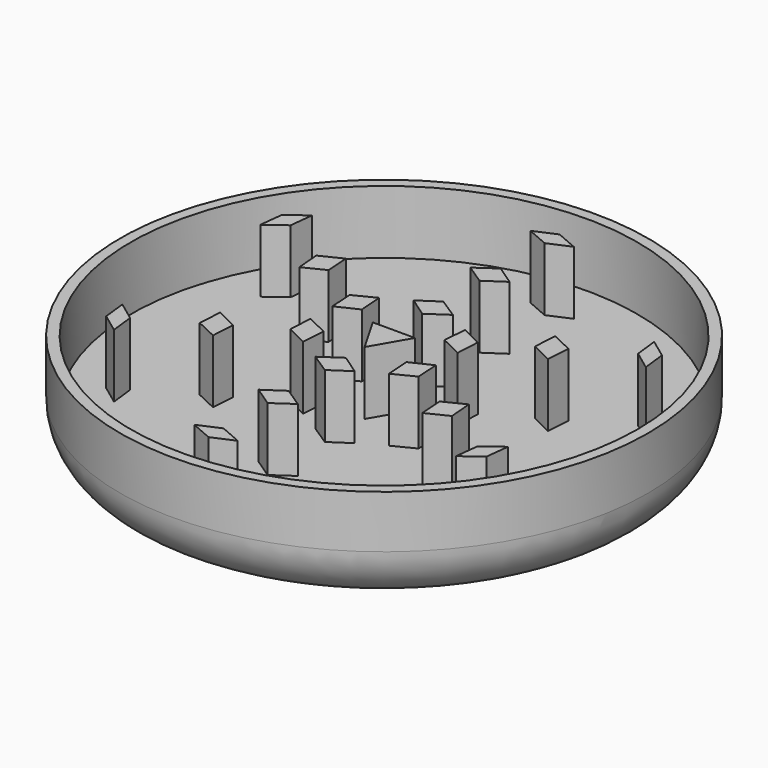
from build123d import *

# Parameters (mm, degrees)
F0_R     = 25
F1_DEPTH = 10
F2_R     = 24
F3_DEPTH = 6
F5_DEPTH = 6
F7_DEPTH = 6
F9_DEPTH = 6
F10_R    = 5


with BuildPart() as f1:
    # F0 (on Top) → F1 (new body)
    with BuildSketch(Plane.XY):
        Circle(F0_R)
    extrude(amount=F1_DEPTH)

    # F2 (on face) → F3 (cut)
    with BuildSketch(Plane.XY.offset(10)):
        Circle(F2_R)
    extrude(amount=-F3_DEPTH, mode=Mode.SUBTRACT)

    # F4 (on face) → F5 (join)
    with BuildSketch(Plane.XY.offset(4)):
        Polygon((2, 1.154701), (-2, 1.154701), (0, -2.309401), align=None)
    extrude(amount=F5_DEPTH)

    # F6 (on face) → F7 (join)
    with BuildSketch(Plane.XY.offset(4)):
        Polygon((0, 19.000366), (2.05507, 19.894137), (0, 20.787908), (-2.05507, 19.894137), align=None)
        Polygon((16.4548, 9.500183), (18.256363, 8.167325), (18.002856, 10.393954), (16.201293, 11.726812), align=None)
        Polygon((16.4548, -9.500183), (16.201293, -11.726812), (18.002856, -10.393954), (18.256363, -8.167325), align=None)
        Polygon((0, -19.000366), (-2.05507, -19.894137), (0, -20.787908), (2.05507, -19.894137), align=None)
        Polygon((-16.4548, -9.500183), (-18.256363, -8.167325), (-18.002856, -10.393954), (-16.201293, -11.726812), align=None)
        Polygon((-16.4548, 9.500183), (-16.201293, 11.726812), (-18.002856, 10.393954), (-18.256363, 8.167325), align=None)
    extrude(amount=F7_DEPTH)

    # F8 (on face) → F9 (join)
    with BuildSketch(Plane.XY.offset(4)):
        Polygon((0, -13.794267), (1.842263, -12.518255), (0, -11.294267), (-1.860011, -12.544267), align=None)
        Polygon((0, -7.016653), (1.842263, -5.792665), (0, -4.516653), (-1.877231, -5.792665), align=None)
        Polygon((6.0766, -3.508326), (5.937727, -1.300886), (3.911536, -2.258326), (4.07798, -4.522062), align=None)
        Polygon((11.946186, -6.897134), (11.762258, -4.663681), (9.781122, -5.647134), (9.933649, -7.88295), align=None)
        Polygon((6.0766, 3.508326), (4.095464, 4.491779), (3.911536, 2.258326), (5.955211, 1.270603), align=None)
        Polygon((1.877231, 5.792665), (0, 7.016653), (-1.842263, 5.792665), (0, 4.516653), align=None)
        Polygon((-6.0766, 3.508326), (-5.937727, 1.300886), (-3.911536, 2.258326), (-4.07798, 4.522062), align=None)
        Polygon((-6.0766, -3.508326), (-4.095464, -4.491779), (-3.911536, -2.258326), (-5.955211, -1.270603), align=None)
        Polygon((-11.946186, -6.897134), (-9.919995, -7.854574), (-9.781122, -5.647134), (-11.79366, -4.661317), align=None)
        Polygon((-11.946186, 6.897134), (-11.762258, 4.663681), (-9.781122, 5.647134), (-9.933649, 7.88295), align=None)
        Polygon((0, 11.294267), (1.860011, 12.544267), (0, 13.794267), (-1.842263, 12.518255), align=None)
        Polygon((11.946186, 6.897134), (9.919995, 7.854574), (9.781122, 5.647134), (11.79366, 4.661317), align=None)
    extrude(amount=F9_DEPTH)

    # F10
    f10_edges = [f1.edges().sort_by_distance(p)[0] for p in [
        (-25, 0, 0),
    ]]
    fillet(f10_edges, radius=F10_R)


solid = f1.part
